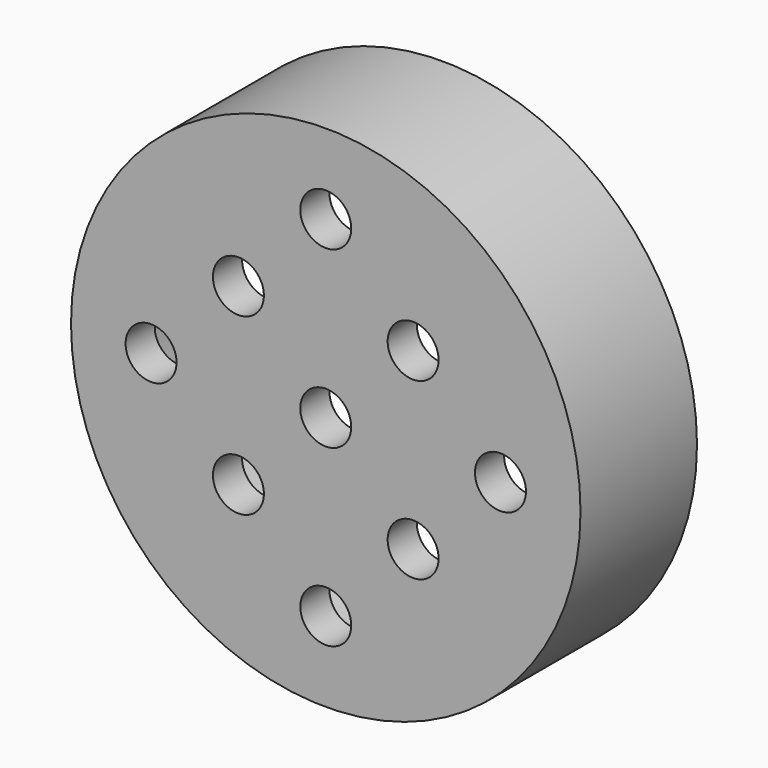
from build123d import *

# Parameters (mm, degrees)
F0_R     = 44.45
F1_DEPTH = 25.4
F2_R     = 40.64
F3_DEPTH = 19.05
F4_R     = 4.445
F5_DEPTH = 25.4


with BuildPart() as f1:
    # F0 (on Front) → F1 (new body)
    with BuildSketch(Plane.XZ):
        Circle(F0_R)
    extrude(amount=F1_DEPTH)

    # F2 (on Front) → F3 (cut)
    with BuildSketch(Plane.XZ):
        Circle(F2_R)
    extrude(amount=F3_DEPTH, mode=Mode.SUBTRACT)

    # F4 (on Front) → F5 (cut)
    with BuildSketch(Plane.XZ):
        with Locations((0, 30.48)):
            Circle(F4_R)
        with Locations((-15.24, 15.24)):
            Circle(F4_R)
        with Locations((-30.48, 0)):
            Circle(F4_R)
        with Locations((15.24, 15.24)):
            Circle(F4_R)
        with Locations((30.48, 0)):
            Circle(F4_R)
        with Locations((-15.24, -15.24)):
            Circle(F4_R)
        with Locations((15.24, -15.24)):
            Circle(F4_R)
        with Locations((0, -30.48)):
            Circle(F4_R)
        Circle(F4_R)
    extrude(amount=F5_DEPTH, mode=Mode.SUBTRACT)


solid = f1.part
